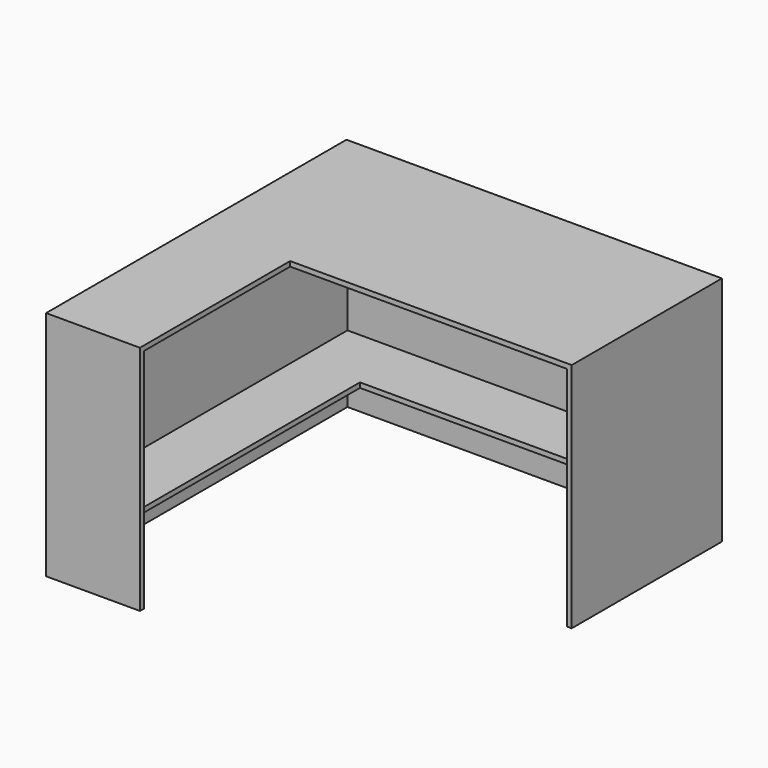
from build123d import *

# Parameters (mm, degrees)
F0_W      = 1219.2
F0_H      = 609.6
F1_DEPTH  = 15.875
F3_DEPTH  = 736.6
F4_W      = 1187.45
F4_H      = 15.875
F5_DEPTH  = 25.4
F6_W      = 898.525
F6_H      = 127
F7_DEPTH  = 25.4
F9_DEPTH  = 609.6
F10_W     = 15.875
F10_H     = 736.6
F11_DEPTH = 288.925
F12_W     = 203.2
F12_H     = 15.875
F13_DEPTH = 1187.45
F14_W     = 203.2
F14_H     = 15.875
F15_DEPTH = 984.25


with BuildPart() as f1:
    # F0 (on Top) → F1 (new body)
    with BuildSketch(Plane.XY):
        Rectangle(F0_W, F0_H)
    extrude(amount=F1_DEPTH)

    # F2 (on face) → F3 (join)
    with BuildSketch(Plane(origin=(0, 0, 0), x_dir=(1, 0, 0), z_dir=(0, 0, -1))):
        Polygon((593.725, -288.925), (-593.725, -288.925), (-593.725, 304.8), (-609.6, 304.8), (-609.6, -304.8), (609.6, -304.8), (609.6, 304.8), (593.725, 304.8), align=None)
    extrude(amount=F3_DEPTH)

    # F4 (on face) → F5 (join)
    with BuildSketch(Plane.XZ.offset(-288.925)):
        with Locations((0, -134.9375)):
            Rectangle(F4_W, F4_H)
    extrude(amount=F5_DEPTH)

    # F6 (on face) → F7 (cut)
    with BuildSketch(Plane.XZ.offset(-288.925)):
        with Locations((144.4625, -63.5)):
            Rectangle(F6_W, F6_H)
    extrude(amount=-F7_DEPTH, mode=Mode.SUBTRACT)

    # F8 (on face) → F9 (join)
    with BuildSketch(Plane.XZ.offset(304.8)):
        Polygon((-304.8, 0), (-304.8, 15.875), (-609.6, 15.875), (-609.6, -736.6), (-593.725, -736.6), (-593.725, 0), align=None)
    extrude(amount=F9_DEPTH)

    # F10 (on face) → F11 (join)
    with BuildSketch(Plane.YZ.offset(-593.725)):
        with Locations((-906.4625, -368.3)):
            Rectangle(F10_W, F10_H)
    extrude(amount=F11_DEPTH)

    # F12 (on face) → F13 (join)
    with BuildSketch(Plane(origin=(0, -898.525, 0), x_dir=(-1, 0, 0), z_dir=(0, 1, 0))):
        with Locations((492.125, -525.4625)):
            Rectangle(F12_W, F12_H)
    extrude(amount=F13_DEPTH)

    # F14 (on face) → F15 (join)
    with BuildSketch(Plane.YZ.offset(-390.525)):
        with Locations((187.325, -525.4625)):
            Rectangle(F14_W, F14_H)
    extrude(amount=F15_DEPTH)


solid = f1.part
